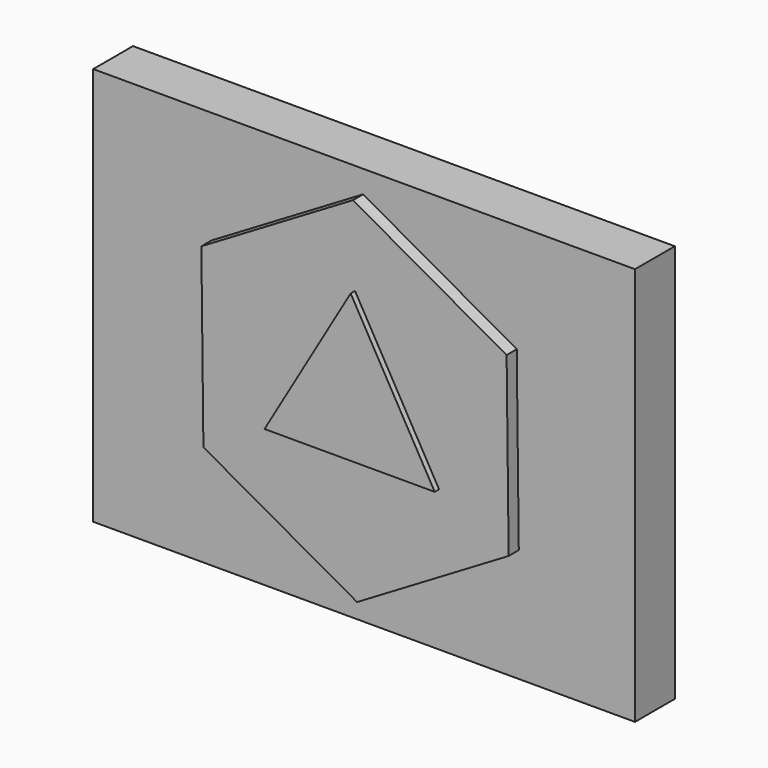
from build123d import *

# Parameters (mm, degrees)
F0_W     = 152.150162
F0_H     = 111.926563
F1_DEPTH = 13.97
F3_DEPTH = 3.556
F5_DEPTH = 1.524


with BuildPart() as f1:
    # F0 (on Front) → F1 (new body)
    with BuildSketch(Plane.XZ):
        with Locations((-0.291478, -0.145737)):
            Rectangle(F0_W, F0_H)
    extrude(amount=F1_DEPTH)

    # F2 (on face) → F3 (join)
    with BuildSketch(Plane.XZ.offset(13.97)):
        Polygon((-0.572803, 49.492897), (-43.148508, 24.250387), (-42.575705, -25.242511), (0.572803, -49.492897), (43.148508, -24.250387), (42.575705, 25.242511), align=None)
    extrude(amount=F3_DEPTH)

    # F4 (on face) → F5 (join)
    with BuildSketch(Plane.XZ.offset(17.526)):
        Polygon((23.607507, -14.136557), (0, 27.25295), (-24.19246, -14.136557), align=None)
    extrude(amount=F5_DEPTH)


solid = f1.part
